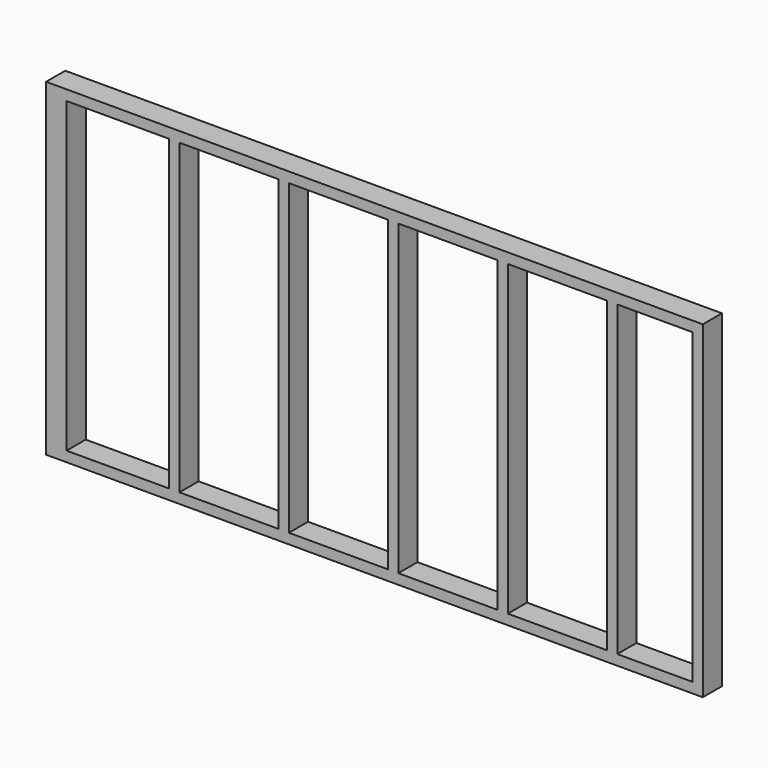
from build123d import *

# Parameters (mm, degrees)
F0_W     = 2438.4
F0_H     = 88.9
F1_DEPTH = 38.1
F2_W     = 38.1
F2_H     = 88.9
F3_DEPTH = 1143
F4_W     = 2438.4
F4_H     = 38.1
F5_DEPTH = 88.9


with BuildPart() as f1:
    # F0 (on Top) → F1 (new body)
    with BuildSketch(Plane.XY):
        Rectangle(F0_W, F0_H)
    extrude(amount=F1_DEPTH)

    # F2 (on face) → F3 (join)
    with BuildSketch(Plane.XY.offset(38.1)):
        with Locations((1200.15, 0)):
            Rectangle(F2_W, F2_H)
        with Locations((882.65, 0)):
            Rectangle(F2_W, F2_H)
        with Locations((476.25, 0)):
            Rectangle(F2_W, F2_H)
        with Locations((69.85, 0)):
            Rectangle(F2_W, F2_H)
        with Locations((-336.55, 0)):
            Rectangle(F2_W, F2_H)
        with Locations((-742.95, 0)):
            Rectangle(F2_W, F2_H)
        with Locations((-1200.15, 0)):
            Rectangle(F2_W, F2_H)
        with Locations((-1162.05, 0)):
            Rectangle(F2_W, F2_H)
    extrude(amount=F3_DEPTH)

    # F4 (on face) → F5 (join)
    with BuildSketch(Plane.XZ.offset(44.45)):
        with Locations((0, 1200.15)):
            Rectangle(F4_W, F4_H)
    extrude(amount=-F5_DEPTH)


solid = f1.part
